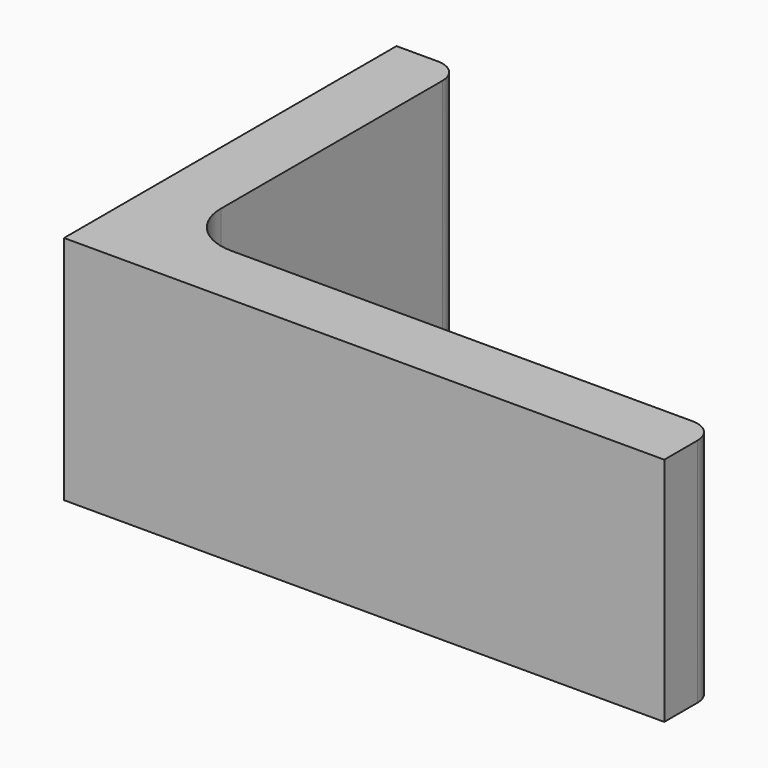
from build123d import *

# Parameters (mm, degrees)
EXTRUDE_DEPTH = 50


with BuildPart() as part:
    # Sketch → Extrude (new body)
    with BuildSketch(Plane.XY):
        with BuildLine():
            Line((0, 0), (130, 0))
            Line((130, 0), (130, 9))
            ThreePointArc((130, 9), (128.535534, 12.535534), (125, 14))
            Line((125, 14), (25, 14))
            ThreePointArc((14, 25), (17.221825, 17.221825), (25, 14))
            Line((14, 85), (14, 25))
            ThreePointArc((14, 85), (12.535534, 88.535534), (9, 90))
            Line((0, 90), (9, 90))
            Line((0, 0), (0, 90))
        make_face()
    extrude(amount=EXTRUDE_DEPTH)


solid = part.part
